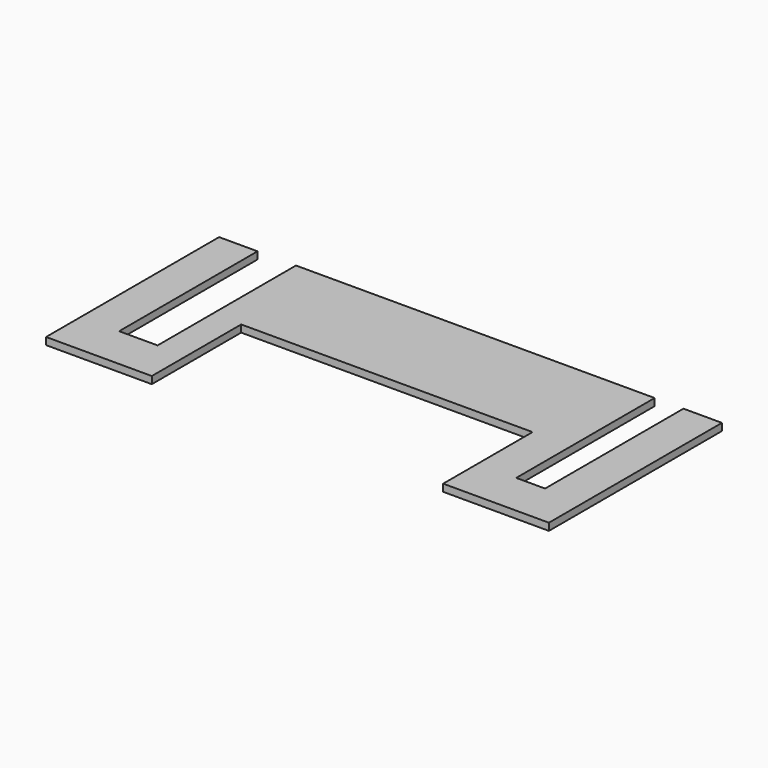
from build123d import *

# Parameters (mm, degrees)
F1_DEPTH = 19.05


with BuildPart() as f1:
    # F0 (on Top) → F1 (new body)
    with BuildSketch(Plane.XY):
        Polygon((-24.668307, 212.656942), (-126.268307, 212.656942), (-126.268307, -358.843058), (153.131693, -358.843058), (153.131693, -63.653782), (923.069193, -63.653782), (923.069193, -358.843058), (1202.469193, -358.843058), (1202.469193, 212.656942), (1100.869193, 212.656942), (1100.869193, -244.543058), (1024.669193, -244.543058), (1024.669193, 212.656942), (76.931693, 212.656942), (76.931693, -244.543058), (-24.668307, -244.543058), align=None)
    extrude(amount=F1_DEPTH)


solid = f1.part
